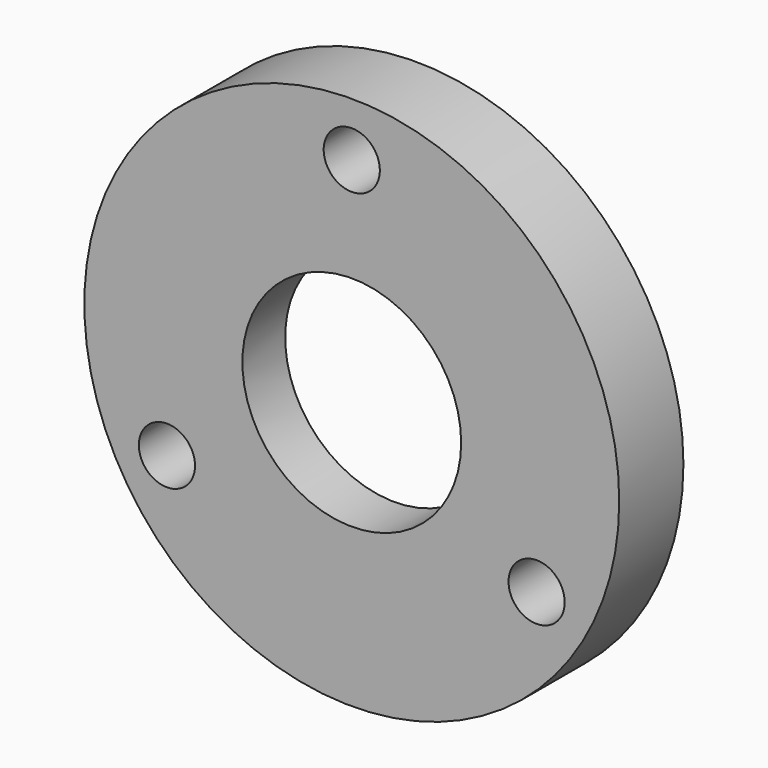
from build123d import *

# Parameters (mm, degrees)
F0_R     = 50
F0_R_2   = 5.25
F0_R_3   = 29.1
F1_DEPTH = 5
F2_R     = 50
F2_R_2   = 5.25
F2_R_3   = 20.45
F3_DEPTH = 10


with BuildPart() as f1:
    # F0 (on Front) → F1 (new body)
    with BuildSketch(Plane.XZ):
        Circle(F0_R)
        with Locations((-34.554414, -19.95)):
            Circle(F0_R_2, mode=Mode.SUBTRACT)
        with Locations((34.554414, -19.95)):
            Circle(F0_R_2, mode=Mode.SUBTRACT)
        Circle(F0_R_3, mode=Mode.SUBTRACT)
        with Locations((0, 39.9)):
            Circle(F0_R_2, mode=Mode.SUBTRACT)
    extrude(amount=F1_DEPTH)

    # F2 (on face) → F3 (join)
    with BuildSketch(Plane.XZ.offset(5)):
        Circle(F2_R)
        with Locations((-34.554414, -19.95)):
            Circle(F2_R_2, mode=Mode.SUBTRACT)
        with Locations((34.554414, -19.95)):
            Circle(F2_R_2, mode=Mode.SUBTRACT)
        Circle(F2_R_3, mode=Mode.SUBTRACT)
        with Locations((0, 39.9)):
            Circle(F2_R_2, mode=Mode.SUBTRACT)
    extrude(amount=F3_DEPTH)


solid = f1.part
